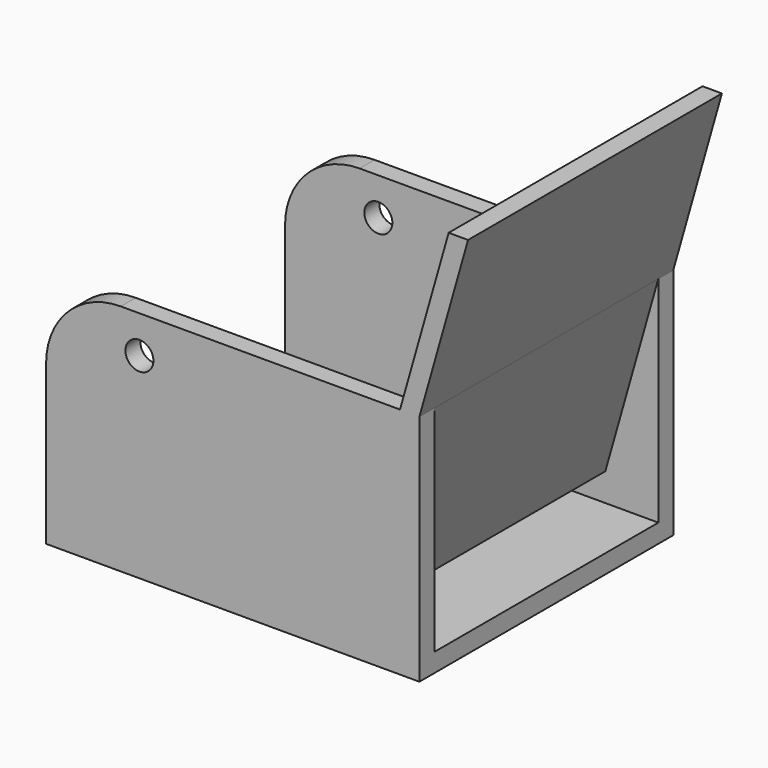
from build123d import *

# Parameters (mm, degrees)
F1_DEPTH = 2
F2_DEPTH = 25
F3_R     = 1.5
F4_DEPTH = 34
F5_DEPTH = 34


with BuildPart() as f1:
    # F0 (on Top) → F1 (new body)
    with BuildSketch(Plane.XY):
        Polygon((0, -15), (20, -15), (20, 15), (0, 15), (-20, 15), (-20, -15), align=None)
    extrude(amount=F1_DEPTH)

    # F0 (on Top) → F2 (join)
    with BuildSketch(Plane.XY):
        Polygon((0, 15), (20, 15), (20, 17), (-20, 17), (-20, 15), align=None)
        Polygon((-20, -17), (20, -17), (20, -15), (0, -15), (-20, -15), align=None)
    extrude(amount=F2_DEPTH)

    # F3 (on face) → F4 (cut)
    with BuildSketch(Plane.XZ.offset(17)):
        with BuildLine():
            ThreePointArc((-20, 17), (-17.656854, 22.656854), (-12, 25))
            Line((-12, 25), (-20, 25))
            Line((-20, 25), (-20, 17))
        make_face()
        with Locations((-10, 21)):
            Circle(F3_R)
    extrude(amount=-F4_DEPTH, mode=Mode.SUBTRACT)

    # F3 (on face) → F5 (join)
    with BuildSketch(Plane.XZ.offset(17)):
        Polygon((20, 25), (17.921008, 25), (12.244668, 5), (14.32366, 5), align=None)
        Polygon((23.133647, 43.366198), (17.921008, 25), (20, 25), (25.212639, 43.366198), align=None)
    extrude(amount=-F5_DEPTH)


solid = f1.part
